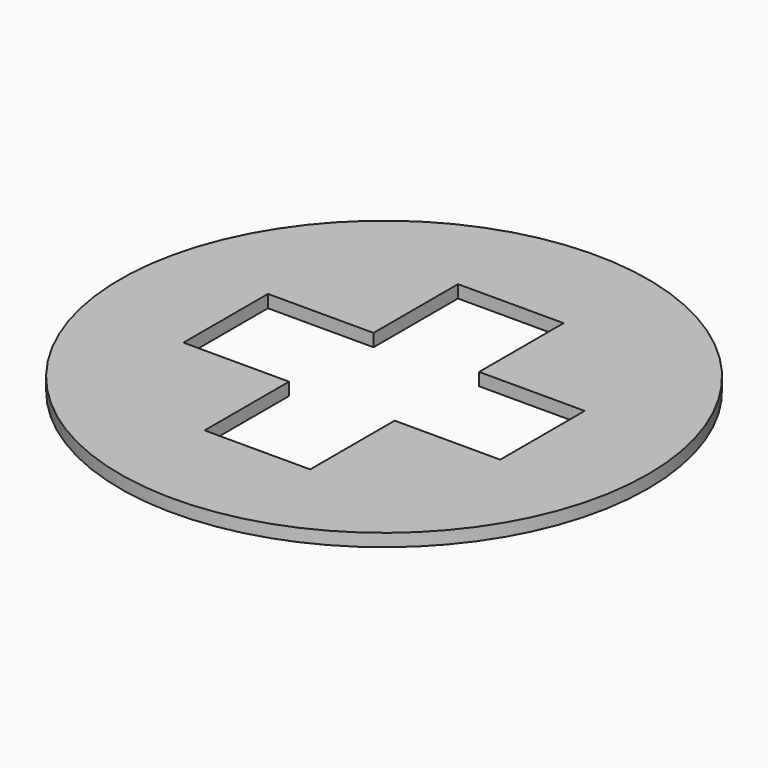
from build123d import *

# Parameters (mm, degrees)
F0_R     = 25
F1_DEPTH = 1.2


with BuildPart() as f1:
    # F0 (on Top) → F1 (new body)
    with BuildSketch(Plane.XY):
        Circle(F0_R)
        Polygon((5, 15), (5, 5), (15, 5), (15, -5), (5, -5), (5, -15), (-5, -15), (-5, -5), (-15, -5), (-15, 5), (-5, 5), (-5, 15), align=None, mode=Mode.SUBTRACT)
        Circle(F0_R)
        Polygon((5, 15), (5, 5), (15, 5), (15, -5), (5, -5), (5, -15), (-5, -15), (-5, -5), (-15, -5), (-15, 5), (-5, 5), (-5, 15), align=None, mode=Mode.SUBTRACT)
    extrude(amount=F1_DEPTH)


solid = f1.part
